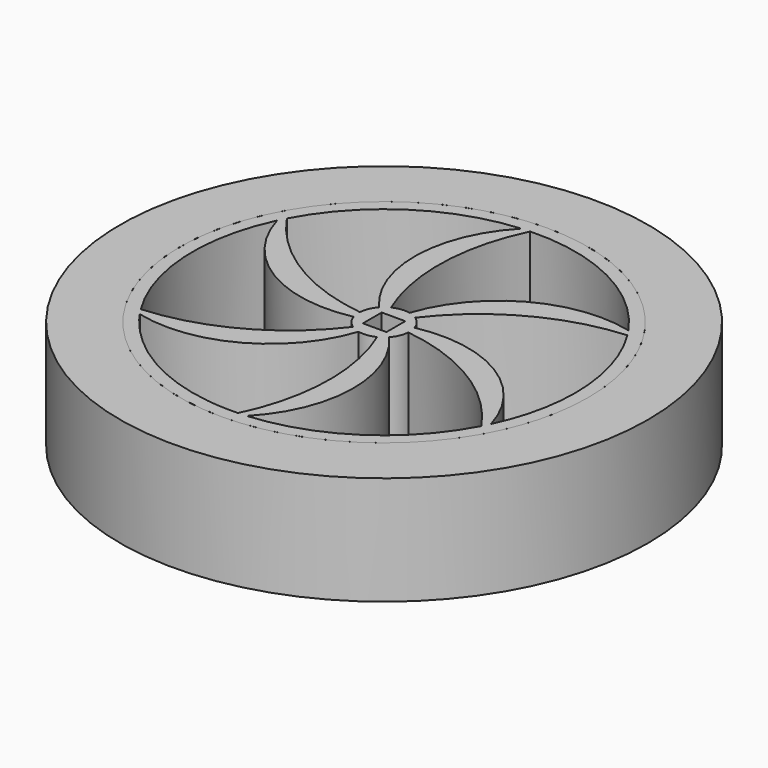
from build123d import *

# Parameters (mm, degrees)
F0_R     = 51.75
F0_R_2   = 40
F1_DEPTH = 21.3
F2_W     = 4.62
F2_H     = 4.62
F3_DEPTH = 21.3


with BuildPart() as f1:
    # F0 (on Top) → F1 (new body)
    with BuildSketch(Plane.XY):
        Circle(F0_R)
        Circle(F0_R_2, mode=Mode.SUBTRACT)
    extrude(amount=F1_DEPTH)


with BuildPart() as f3:
    # F2 (on Top) → F3 (new body)
    with BuildSketch(Plane.XY):
        with BuildLine():
            ThreePointArc((34.6410161514, -20), (38.6370330516, -10.3527618041), (40, 0))
            ThreePointArc((40, 0), (38.6370330516, 10.3527618041), (34.6410161514, 20))
            ThreePointArc((34.6410161514, 20), (33.212374941, 19.9744791622), (31.7855567366, 19.8979492146))
            ThreePointArc((31.7855567366, 19.8979492146), (36.0430879478, 10.3511260832), (37.5, 0))
            ThreePointArc((37.5, 0), (36.5782038439, -8.2634740609), (33.8581331437, -16.1206953951))
            ThreePointArc((33.8581331437, -16.1206953951), (34.3264572437, -18.04483201), (34.6410161514, -20))
        make_face()
        with BuildLine():
            ThreePointArc((30.8899983107, 21.2616557296), (32.7905115496, 20.70516799), (34.6410161514, 20))
            ThreePointArc((34.6410161514, 20), (20, 34.6410161514), (0, 40))
            ThreePointArc((0, 40), (-0.6922189114, 38.75), (-1.3393511348, 37.4760742146))
            ThreePointArc((-1.3393511348, 37.4760742146), (16.853398139, 33.4994473263), (30.8899983107, 21.2616557296))
        make_face()
        with BuildLine():
            ThreePointArc((31.7855567366, 19.8979492146), (33.212374941, 19.9744791622), (34.6410161514, 20))
            ThreePointArc((34.6410161514, 20), (32.7905115496, 20.70516799), (30.8899983107, 21.2616557296))
            ThreePointArc((30.8899983107, 21.2616557296), (31.3451945916, 20.5846733278), (31.7855567366, 19.8979492146))
        make_face()
        with BuildLine():
            ThreePointArc((0, -40), (20, -34.6410161514), (34.6410161514, -20))
            ThreePointArc((34.6410161514, -20), (33.9045938523, -18.7755208378), (33.1249078713, -17.578125))
            ThreePointArc((33.1249078713, -17.578125), (20.5846733278, -31.3451945916), (2.968134833, -37.3823511247))
            ThreePointArc((2.968134833, -37.3823511247), (1.5359456942, -38.75), (0, -40))
        make_face()
        with BuildLine():
            ThreePointArc((33.1249078713, -17.578125), (33.9045938523, -18.7755208378), (34.6410161514, -20))
            ThreePointArc((34.6410161514, -20), (34.3264572437, -18.04483201), (33.8581331437, -16.1206953951))
            ThreePointArc((33.8581331437, -16.1206953951), (33.4994473263, -16.853398139), (33.1249078713, -17.578125))
        make_face()
        with BuildLine():
            ThreePointArc((-2.968134833, 37.3823511247), (-1.5359456942, 38.75), (0, 40))
            ThreePointArc((0, 40), (-20, 34.6410161514), (-34.6410161514, 20))
            ThreePointArc((-34.6410161514, 20), (-33.9045938523, 18.7755208378), (-33.1249078713, 17.578125))
            ThreePointArc((-33.1249078713, 17.578125), (-20.5846733278, 31.3451945916), (-2.968134833, 37.3823511247))
        make_face()
        with BuildLine():
            ThreePointArc((-1.3393511348, 37.4760742146), (-0.6922189114, 38.75), (0, 40))
            ThreePointArc((0, 40), (-1.5359456942, 38.75), (-2.968134833, 37.3823511247))
            ThreePointArc((-2.968134833, 37.3823511247), (-2.1542527347, 37.4380714668), (-1.3393511348, 37.4760742146))
        make_face()
        with BuildLine():
            ThreePointArc((-34.6410161514, -20), (-20, -34.6410161514), (0, -40))
            Line((0, -40), (-4.8831651119, -37.1807033082))
            ThreePointArc((-4.8831651119, -37.1807033082), (-18.75, -32.4759526419), (-29.7578510395, -22.8192966918))
            Line((-29.7578510395, -22.8192966918), (-34.6410161514, -20))
        make_face()
        with BuildLine():
            Line((-4.8831651119, -37.1807033082), (0, -40))
            ThreePointArc((0, -40), (0.6922189114, -38.75), (1.3393511348, -37.4760742146))
            ThreePointArc((1.3393511348, -37.4760742146), (-1.778051003, -37.4578234102), (-4.8831651119, -37.1807033082))
        make_face()
        with BuildLine():
            ThreePointArc((1.3393511348, -37.4760742146), (0.6922189114, -38.75), (0, -40))
            ThreePointArc((0, -40), (1.5359456942, -38.75), (2.968134833, -37.3823511247))
            ThreePointArc((2.968134833, -37.3823511247), (2.1542527347, -37.4380714668), (1.3393511348, -37.4760742146))
        make_face()
        with BuildLine():
            ThreePointArc((-33.8581331437, 16.1206953951), (-34.3264572437, 18.04483201), (-34.6410161514, 20))
            ThreePointArc((-34.6410161514, 20), (-40, 0), (-34.6410161514, -20))
            ThreePointArc((-34.6410161514, -20), (-33.212374941, -19.9744791622), (-31.7855567366, -19.8979492146))
            ThreePointArc((-31.7855567366, -19.8979492146), (-37.4380714668, -2.1542527347), (-33.8581331437, 16.1206953951))
        make_face()
        with BuildLine():
            ThreePointArc((-33.1249078713, 17.578125), (-33.9045938523, 18.7755208378), (-34.6410161514, 20))
            ThreePointArc((-34.6410161514, 20), (-34.3264572437, 18.04483201), (-33.8581331437, 16.1206953951))
            ThreePointArc((-33.8581331437, 16.1206953951), (-33.4994473263, 16.853398139), (-33.1249078713, 17.578125))
        make_face()
        with BuildLine():
            ThreePointArc((-30.8899983107, -21.2616557296), (-32.7905115496, -20.70516799), (-34.6410161514, -20))
            Line((-34.6410161514, -20), (-29.7578510395, -22.8192966918))
            ThreePointArc((-29.7578510395, -22.8192966918), (-30.3339243924, -22.0477443507), (-30.8899983107, -21.2616557296))
        make_face()
        with BuildLine():
            ThreePointArc((-31.7855567366, -19.8979492146), (-33.212374941, -19.9744791622), (-34.6410161514, -20))
            ThreePointArc((-34.6410161514, -20), (-32.7905115496, -20.70516799), (-30.8899983107, -21.2616557296))
            ThreePointArc((-30.8899983107, -21.2616557296), (-31.3451945916, -20.5846733278), (-31.7855567366, -19.8979492146))
        make_face()
        with BuildLine():
            ThreePointArc((-33.1249078713, 17.578125), (-33.4994473263, 16.853398139), (-33.8581331437, 16.1206953951))
            ThreePointArc((-33.8581331437, 16.1206953951), (-22.770976549, 1.6061493352), (-4.7714382267, -1.4944488111))
            ThreePointArc((-4.7714382267, -1.4944488111), (-4.9637468065, -0.6010138446), (-4.9902248196, 0.3125))
            ThreePointArc((-4.9902248196, 0.3125), (-20.9216702649, 5.9077176867), (-33.1249078713, 17.578125))
        make_face()
        with BuildLine():
            ThreePointArc((-2.2244794711, 4.4779114644), (-5.3446015373, 21.0725567823), (-1.3393511348, 37.4760742146))
            ThreePointArc((-1.3393511348, 37.4760742146), (-2.1542527347, 37.4380714668), (-2.968134833, 37.3823511247))
            ThreePointArc((-2.968134833, 37.3823511247), (-9.9945221479, 20.523318828), (-3.6799497484, 3.3849623113))
            ThreePointArc((-3.6799497484, 3.3849623113), (-3.0023666606, 3.9982239101), (-2.2244794711, 4.4779114644))
        make_face()
        with BuildLine():
            ThreePointArc((2.7657453485, 4.1654114644), (15.5770687275, 15.1648390956), (31.7855567366, 19.8979492146))
            ThreePointArc((31.7855567366, 19.8979492146), (31.3451945916, 20.5846733278), (30.8899983107, 21.2616557296))
            ThreePointArc((30.8899983107, 21.2616557296), (12.7764544011, 18.9171694928), (1.0914884782, 4.8794111224))
            ThreePointArc((1.0914884782, 4.8794111224), (1.9613801458, 4.5992377546), (2.7657453485, 4.1654114644))
        make_face()
        with BuildLine():
            ThreePointArc((4.7714382267, 1.4944488111), (3.9982239101, 3.0023666606), (2.7657453485, 4.1654114644))
            ThreePointArc((2.7657453485, 4.1654114644), (1.9613801458, 4.5992377546), (1.0914884782, 4.8794111224))
            ThreePointArc((1.0914884782, 4.8794111224), (-0.6010138446, 4.9637468065), (-2.2244794711, 4.4779114644))
            ThreePointArc((-2.2244794711, 4.4779114644), (-3.0023666606, 3.9982239101), (-3.6799497484, 3.3849623113))
            ThreePointArc((-3.6799497484, 3.3849623113), (-4.5992377546, 1.9613801458), (-4.9902248196, 0.3125))
            ThreePointArc((-4.9902248196, 0.3125), (-4.9637468065, -0.6010138446), (-4.7714382267, -1.4944488111))
            ThreePointArc((-4.7714382267, -1.4944488111), (-3.9982239101, -3.0023666606), (-2.7657453485, -4.1654114644))
            ThreePointArc((-2.7657453485, -4.1654114644), (-1.9613801458, -4.5992377546), (-1.0914884782, -4.8794111224))
            ThreePointArc((-1.0914884782, -4.8794111224), (0.6010138446, -4.9637468065), (2.2244794711, -4.4779114644))
            ThreePointArc((2.2244794711, -4.4779114644), (3.0023666606, -3.9982239101), (3.6799497484, -3.3849623113))
            ThreePointArc((3.6799497484, -3.3849623113), (4.5992377546, -1.9613801458), (4.9902248196, -0.3125))
            ThreePointArc((4.9902248196, -0.3125), (4.9975556074, -0.1563264246), (5, 0))
            ThreePointArc((5, 0), (4.9425292682, 0.75591298), (4.7714382267, 1.4944488111))
        make_face()
        Rectangle(F2_W, F2_H, mode=Mode.SUBTRACT)
        with BuildLine():
            ThreePointArc((4.9902248196, -0.3125), (20.9216702649, -5.9077176867), (33.1249078713, -17.578125))
            ThreePointArc((33.1249078713, -17.578125), (33.4994473263, -16.853398139), (33.8581331437, -16.1206953951))
            ThreePointArc((33.8581331437, -16.1206953951), (22.770976549, -1.6061493352), (4.7714382267, 1.4944488111))
            ThreePointArc((4.7714382267, 1.4944488111), (4.9425292682, 0.75591298), (5, 0))
            ThreePointArc((5, 0), (4.9975556074, -0.1563264246), (4.9902248196, -0.3125))
        make_face()
        with BuildLine():
            ThreePointArc((-2.7657453485, -4.1654114644), (-15.5770687275, -15.1648390956), (-31.7855567366, -19.8979492146))
            ThreePointArc((-31.7855567366, -19.8979492146), (-31.3451945916, -20.5846733278), (-30.8899983107, -21.2616557296))
            ThreePointArc((-30.8899983107, -21.2616557296), (-12.7764544011, -18.9171694928), (-1.0914884782, -4.8794111224))
            ThreePointArc((-1.0914884782, -4.8794111224), (-1.9613801458, -4.5992377546), (-2.7657453485, -4.1654114644))
        make_face()
        with BuildLine():
            ThreePointArc((2.2244794711, -4.4779114644), (5.3446015373, -21.0725567823), (1.3393511348, -37.4760742146))
            ThreePointArc((1.3393511348, -37.4760742146), (2.1542527347, -37.4380714668), (2.968134833, -37.3823511247))
            ThreePointArc((2.968134833, -37.3823511247), (9.9945221479, -20.523318828), (3.6799497484, -3.3849623113))
            ThreePointArc((3.6799497484, -3.3849623113), (3.0023666606, -3.9982239101), (2.2244794711, -4.4779114644))
        make_face()
    extrude(amount=F3_DEPTH)


solid = Compound([f1.part, f3.part])
